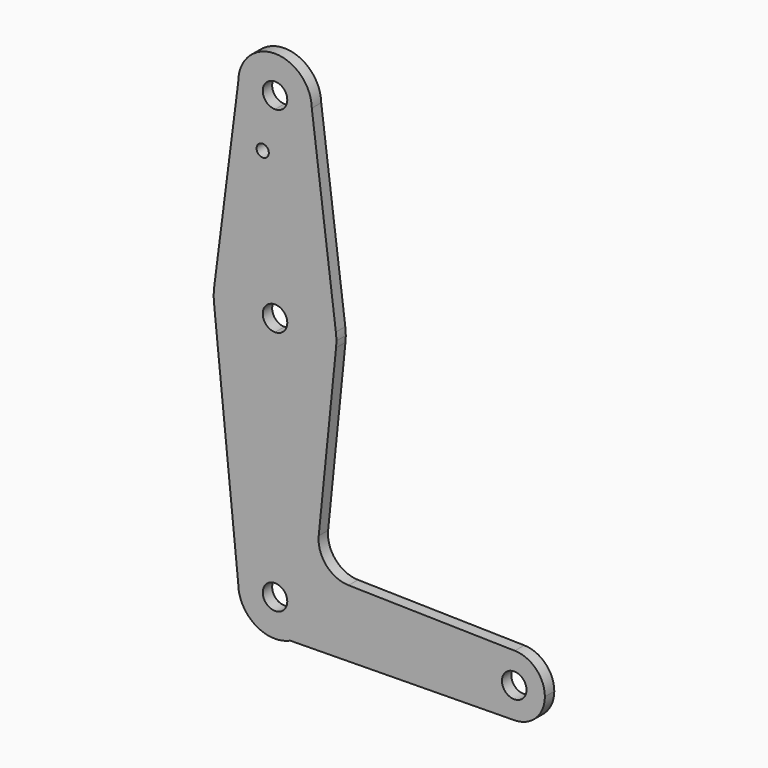
from build123d import *

# Parameters (mm, degrees)
F0_R     = 1.5875
F1_DEPTH = 3.048


with BuildPart() as f1:
    # F0 (on Front) → F1 (new body)
    with BuildSketch(Plane.XZ):
        with BuildLine():
            ThreePointArc((-9.5245670944, 114.2091888567), (-6.7030086103, 107.5327774848), (0, 104.775))
            ThreePointArc((0, 104.775), (6.7351920908, 107.5648079092), (9.525, 114.3))
            ThreePointArc((9.525, 114.3), (9.5246161055, 114.3855163278), (9.5234644531, 114.4710257623))
            ThreePointArc((9.5234644531, 114.4710257623), (-0.1309196137, 123.8241002228), (-9.5245670944, 114.2091888567))
        make_face()
        with BuildLine():
            ThreePointArc((3.175, 114.3), (2.2450640303, 112.0549359697), (0, 111.125))
            ThreePointArc((0, 111.125), (-2.2450640303, 116.5450640303), (3.175, 114.3))
        make_face(mode=Mode.SUBTRACT)
        with BuildLine():
            ThreePointArc((9.525, 114.3), (6.7351920908, 107.5648079092), (0, 104.775))
            Line((0, 104.775), (0, 79.375))
            ThreePointArc((0, 79.375), (10.493709973, 75.4120810945), (15.7482739125, 65.5018725672))
            Line((15.7482739125, 65.5018725672), (9.5234644531, 114.4710257623))
            ThreePointArc((9.5234644531, 114.4710257623), (9.5246161055, 114.3855163278), (9.525, 114.3))
        make_face()
        with BuildLine():
            Line((0, 79.375), (0, 104.775))
            ThreePointArc((0, 104.775), (-6.7030086103, 107.5327774848), (-9.5245670944, 114.2091888567))
            Line((-9.5245670944, 114.2091888567), (-15.7469689357, 65.5121119099))
            ThreePointArc((-15.7469689357, 65.5121119099), (-10.4898367106, 75.4154920496), (0, 79.375))
        make_face()
        with Locations((-3.1868154183, 100.6748154759)):
            Circle(F0_R, mode=Mode.SUBTRACT)
        with BuildLine():
            ThreePointArc((15.7482739125, 65.5018725672), (10.493709973, 75.4120810945), (0, 79.375))
            Line((0, 79.375), (0, 66.675))
            ThreePointArc((0, 66.675), (2.2450640303, 65.7450640303), (3.175, 63.5))
            ThreePointArc((3.175, 63.5), (2.2450640303, 61.2549359697), (0, 60.325))
            Line((0, 60.325), (0, 47.625))
            ThreePointArc((0, 47.625), (10.644756084, 51.722700101), (15.7942028036, 61.9003804205))
            ThreePointArc((15.7942028036, 61.9003804205), (15.8547878338, 62.6991705884), (15.875, 63.5))
            ThreePointArc((15.875, 63.5), (15.8432868017, 64.5029398383), (15.7482739125, 65.5018725672))
        make_face()
        with BuildLine():
            Line((0, 66.675), (0, 79.375))
            ThreePointArc((0, 79.375), (-10.4898367106, 75.4154920496), (-15.7469689357, 65.5121119099))
            ThreePointArc((-15.7469689357, 65.5121119099), (-15.8736426116, 63.7075939311), (-15.7942028036, 61.9003804205))
            ThreePointArc((-15.7942028036, 61.9003804205), (-10.644756084, 51.722700101), (0, 47.625))
            Line((0, 47.625), (0, 60.325))
            ThreePointArc((0, 60.325), (-3.175, 63.5), (0, 66.675))
        make_face()
        with BuildLine():
            ThreePointArc((0, 47.625), (-10.644756084, 51.722700101), (-15.7942028036, 61.9003804205))
            Line((-15.7942028036, 61.9003804205), (-9.525, 0))
            ThreePointArc((-9.525, 0), (-6.7351920908, 6.7351920908), (0, 9.525))
            Line((0, 9.525), (0, 47.625))
        make_face()
        with BuildLine():
            ThreePointArc((15.7942028036, 61.9003804205), (10.644756084, 51.722700101), (0, 47.625))
            Line((0, 47.625), (0, 9.525))
            ThreePointArc((0, 9.525), (6.7351920908, 6.7351920908), (9.525, 0))
            Line((9.525, 0), (53.975, 0))
            ThreePointArc((53.975, 0), (56.360465341, 5.6726376048), (62.0830484776, 7.9356675502))
            Line((62.0830484776, 7.9356675502), (19.0474386093, 8.860562362))
            ThreePointArc((19.0474386093, 8.860562362), (13.2632543677, 11.5417087028), (11.3085232005, 17.6100164656))
            Line((11.3085232005, 17.6100164656), (15.7942028036, 61.9003804205))
        make_face()
        with BuildLine():
            ThreePointArc((0, 9.525), (-6.7351920908, 6.7351920908), (-9.525, 0))
            ThreePointArc((-9.525, 0), (-5.1570670221, -8.0081386557), (3.9406765836, -8.6716026813))
            ThreePointArc((3.9406765836, -8.6716026813), (8.0081386557, -5.1570670221), (9.525, 0))
            Line((9.525, 0), (3.175, 0))
            ThreePointArc((3.175, 0), (-2.2450640303, -2.2450640303), (0, 3.175))
            Line((0, 3.175), (0, 9.525))
        make_face()
        with BuildLine():
            ThreePointArc((9.525, 0), (8.0081386557, -5.1570670221), (3.9406765836, -8.6716026813))
            Line((3.9406765836, -8.6716026813), (62.0129182937, -7.9368647725))
            ThreePointArc((62.0129182937, -7.9368647725), (56.3354561574, -5.6480517197), (53.975, 0))
            Line((53.975, 0), (9.525, 0))
        make_face()
        with BuildLine():
            ThreePointArc((53.975, 0), (56.3354561574, -5.6480517197), (62.0129182937, -7.9368647725))
            ThreePointArc((62.0129182937, -7.9368647725), (67.5605517197, -5.5770438426), (69.85, 0))
            ThreePointArc((69.85, 0), (67.5851376048, 5.552034659), (62.0830484776, 7.9356675502))
            ThreePointArc((62.0830484776, 7.9356675502), (56.360465341, 5.6726376048), (53.975, 0))
        make_face()
        with BuildLine():
            ThreePointArc((65.0875, 0), (61.9125, -3.175), (58.7375, 0))
            ThreePointArc((58.7375, 0), (61.9125, 3.175), (65.0875, 0))
        make_face(mode=Mode.SUBTRACT)
        with BuildLine():
            ThreePointArc((9.525, 0), (6.7351920908, 6.7351920908), (0, 9.525))
            Line((0, 9.525), (0, 3.175))
            ThreePointArc((0, 3.175), (2.2450640303, 2.2450640303), (3.175, 0))
            Line((3.175, 0), (9.525, 0))
        make_face()
    extrude(amount=F1_DEPTH)


solid = f1.part
